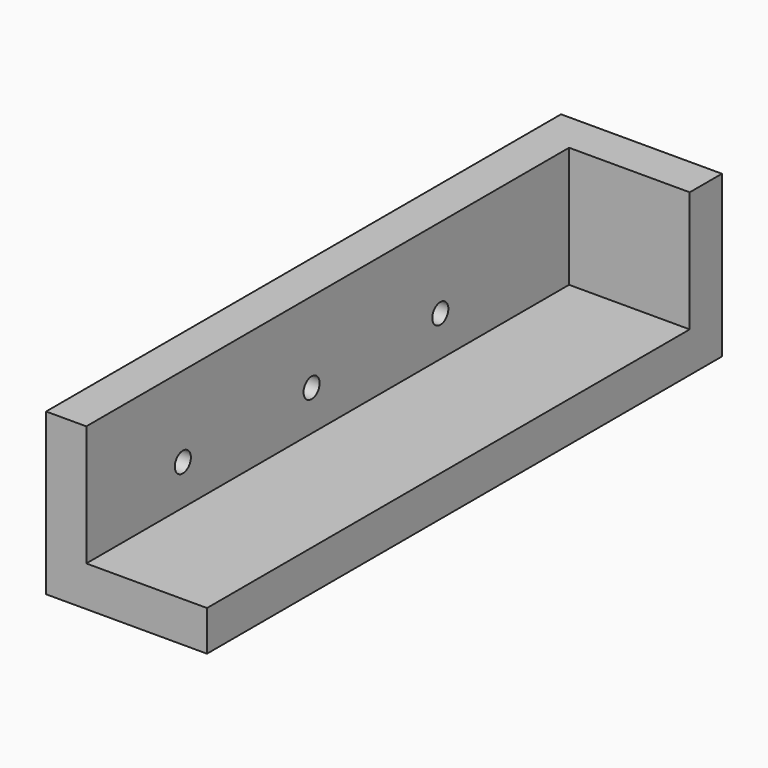
from build123d import *

# Parameters (mm, degrees)
F1_DEPTH = 101.6
F2_W     = 25.4
F2_H     = 25.4
F3_DEPTH = 6.35
F4_R     = 1.5875
F5_DEPTH = 25.4


with BuildPart() as f1:
    # F0 (on Front) → F1 (new body)
    with BuildSketch(Plane.XZ):
        Polygon((0, 25.4), (0, 0), (25.4, 0), (25.4, 6.35), (6.35, 6.35), (6.35, 25.4), align=None)
    extrude(amount=F1_DEPTH)

    # F2 (on Front) → F3 (join)
    with BuildSketch(Plane.XZ):
        with Locations((12.7, 12.7)):
            Rectangle(F2_W, F2_H)
    extrude(amount=F3_DEPTH)

    # F4 (on face) → F5 (cut)
    with BuildSketch(Plane.YZ.offset(6.35)):
        with Locations((-31.75, 12.7)):
            Circle(F4_R)
        with Locations((-57.15, 12.7)):
            Circle(F4_R)
        with Locations((-82.55, 12.7)):
            Circle(F4_R)
    extrude(amount=-F5_DEPTH, mode=Mode.SUBTRACT)


solid = f1.part
